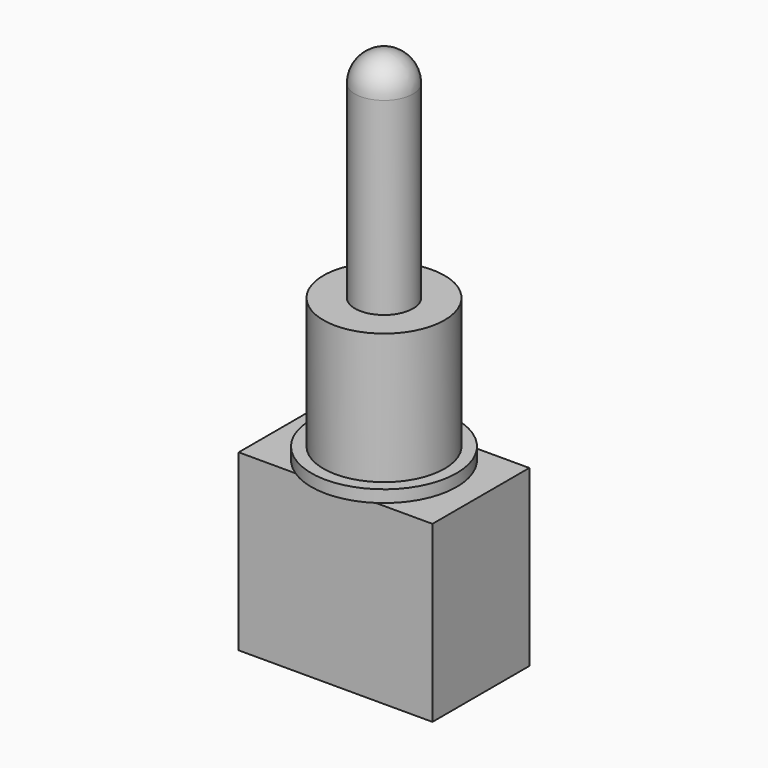
from build123d import *

# Parameters (mm, degrees)
F0_W     = 8
F0_H     = 5
F1_DEPTH = 7.2
F2_R     = 3
F3_DEPTH = 0.5
F4_R     = 2.5
F5_DEPTH = 5.4
F6_R     = 1.2
F7_DEPTH = 9
F8_R     = 1.2


with BuildPart() as f1:
    # F0 (on Top) → F1 (new body)
    with BuildSketch(Plane.XY):
        Rectangle(F0_W, F0_H)
    extrude(amount=F1_DEPTH)

    # F2 (on face) → F3 (join)
    with BuildSketch(Plane.XY.offset(7.2)):
        Circle(F2_R)
    extrude(amount=F3_DEPTH)

    # F4 (on face) → F5 (join)
    with BuildSketch(Plane.XY.offset(7.7)):
        Circle(F4_R)
    extrude(amount=F5_DEPTH)

    # F6 (on face) → F7 (join)
    with BuildSketch(Plane.XY.offset(13.1)):
        Circle(F6_R)
    extrude(amount=F7_DEPTH)

    # F8
    f8_edges = [f1.edges().sort_by_distance(p)[0] for p in [
        (-1.2, 0, 22.1),
    ]]
    fillet(f8_edges, radius=F8_R)


solid = f1.part
